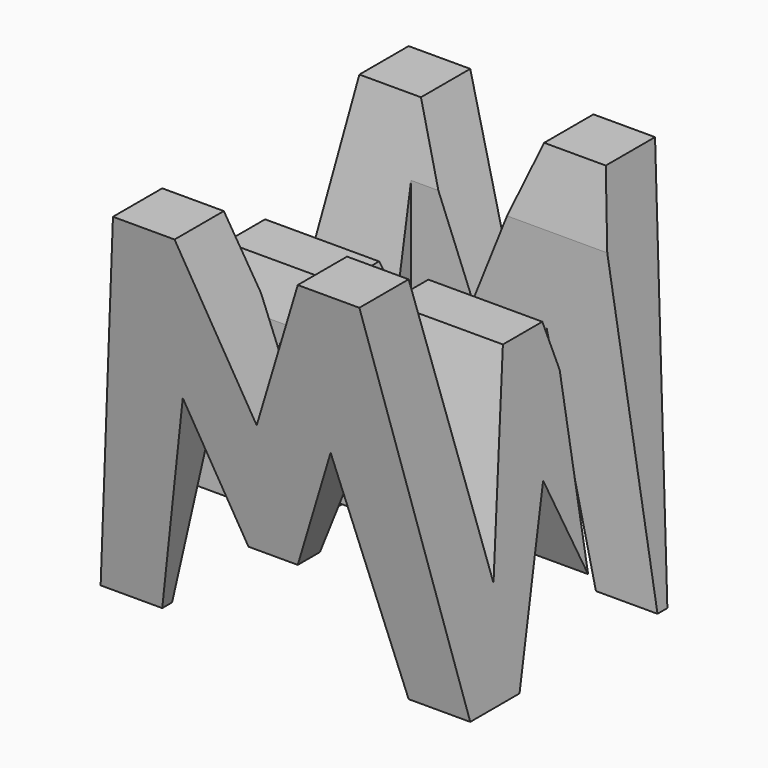
from build123d import *

# Parameters (mm, degrees)
F0_W     = 38.1
F0_H     = 38.1
F1_DEPTH = 38.1
F5_DEPTH = 38.1
F7_DEPTH = 38.1
F8_W     = 25.4
F8_H     = 7.62
F9_DEPTH = 38.1


with BuildPart() as f1:
    # F0 (on Front) → F1 (new body)
    with BuildSketch(Plane.XZ):
        with Locations((19.05, -19.05)):
            Rectangle(F0_W, F0_H)
    extrude(amount=F1_DEPTH)

    # F4 (on offset) → F5 (cut)
    with BuildSketch(Plane.YZ.offset(38.1)):
        Polygon((-31.75, -38.1), (-38.1, 0), (-38.1, -38.1), align=None)
        Polygon((-11.43, -28.104628), (-6.35, 0), (-31.75, 0), (-26.67, -28.104628), (-21.59, -9.525), (-16.51, -9.525), align=None)
        Polygon((-25.4, -38.1), (-12.7, -38.1), (-19.05, -22.225), align=None)
        Polygon((0, -32.925924), (0, 0), (-6.35, -38.1), (0, -38.1), align=None)
    extrude(amount=-F5_DEPTH, mode=Mode.SUBTRACT)

    # F6 (on offset) → F7 (cut)
    with BuildSketch(Plane.XZ.offset(38.1)):
        Polygon((6.35, 0), (0, 0), (0, -38.1), align=None)
        Polygon((25.4, 0), (12.7, 0), (19.05, -15.875), align=None)
        Polygon((11.43, -15.875), (6.35, -38.1), (31.75, -38.1), (26.67, -15.875), (21.59, -28.575), (16.51, -28.575), align=None)
        Polygon((38.1, 0), (31.75, 0), (38.1, -38.1), align=None)
    extrude(amount=-F7_DEPTH, mode=Mode.SUBTRACT)

    # F8 (on Top) → F9 (cut)
    with BuildSketch(Plane.XY):
        with Locations((25.4, -11.43)):
            Rectangle(F8_W, F8_H)
        with Locations((12.7, -26.67)):
            Rectangle(F8_W, F8_H)
    extrude(amount=-F9_DEPTH, mode=Mode.SUBTRACT)


solid = f1.part
